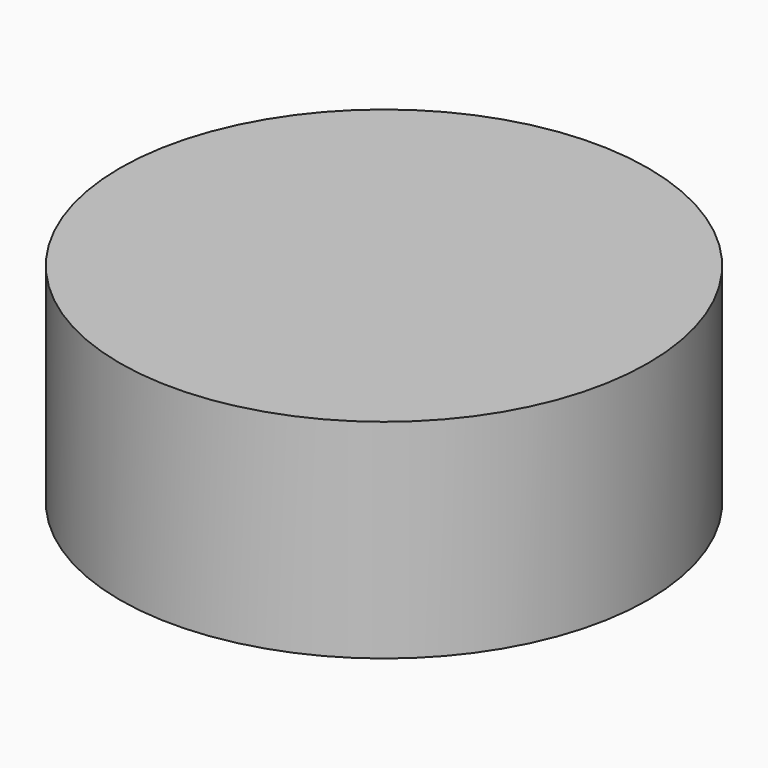
from build123d import *

# Parameters (mm, degrees)
F0_W     = 89.004051
F0_H     = 100
F1_DEPTH = 25
F2_R     = 31.685665
F3_DEPTH = 25


with BuildPart() as f1:
    # F0 (on Top) → F1 (new body)
    with BuildSketch(Plane.XY):
        with Locations((44.502025, 50)):
            Rectangle(F0_W, F0_H)
    extrude(amount=F1_DEPTH)

    # F2 (on face) → F3 (intersect)
    with BuildSketch(Plane.XY.offset(25)):
        with Locations((44.421799, 52.562438)):
            Circle(F2_R)
    extrude(amount=-F3_DEPTH, mode=Mode.INTERSECT)


solid = f1.part
